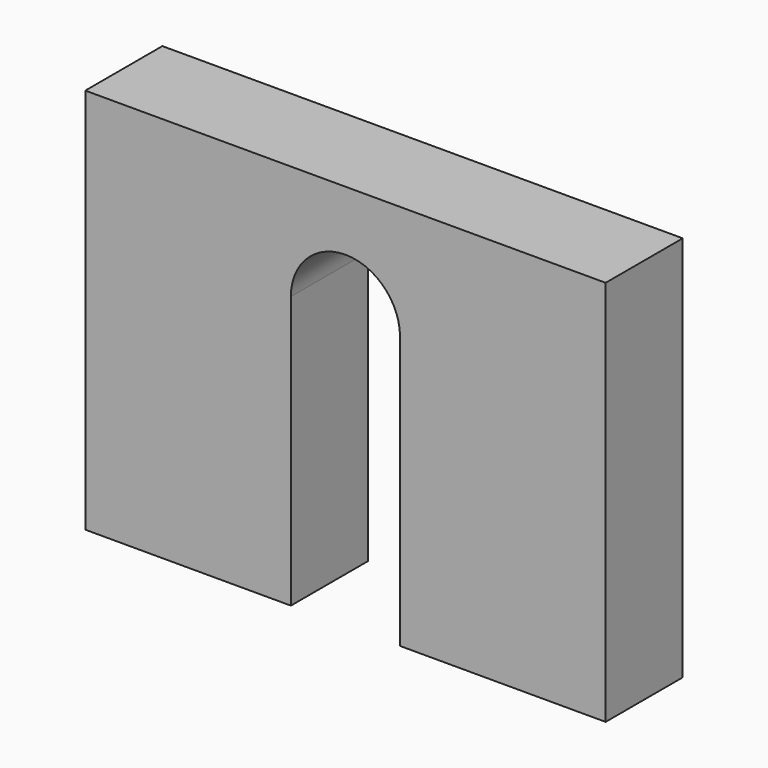
from build123d import *

# Parameters (mm, degrees)
F0_W     = 10.050516
F0_H     = 71.733105
F1_DEPTH = 25.4


with BuildPart() as f1:
    # F0 (on Front) → F1 (new body)
    with BuildSketch(Plane.XZ):
        with BuildLine():
            Line((-30.742768, 44.919528), (-20.692252, 44.919528))
            ThreePointArc((-20.692252, 44.919528), (-6.306217, 59.305562), (8.079818, 44.919528))
            Line((8.079818, 44.919528), (18.130334, 44.919528))
            ThreePointArc((18.130334, 44.919528), (-6.306217, 69.356079), (-30.742768, 44.919528))
        make_face()
        with Locations((-25.71751, 9.052976)):
            Rectangle(F0_W, F0_H)
        with Locations((13.105076, 9.052976)):
            Rectangle(F0_W, F0_H)
        with BuildLine():
            Line((-74.886223, -26.813577), (-30.742768, -26.813577))
            Line((-30.742768, -26.813577), (-30.742768, 44.919528))
            ThreePointArc((-30.742768, 44.919528), (-6.306217, 69.356079), (18.130334, 44.919528))
            Line((18.130334, 44.919528), (18.130334, -26.813577))
            Line((18.130334, -26.813577), (62.273789, -26.813577))
            Line((62.273789, -26.813577), (62.273789, 75.083278))
            Line((62.273789, 75.083278), (-74.886223, 75.083278))
            Line((-74.886223, 75.083278), (-74.886223, -26.813577))
        make_face()
    extrude(amount=F1_DEPTH)


solid = f1.part
